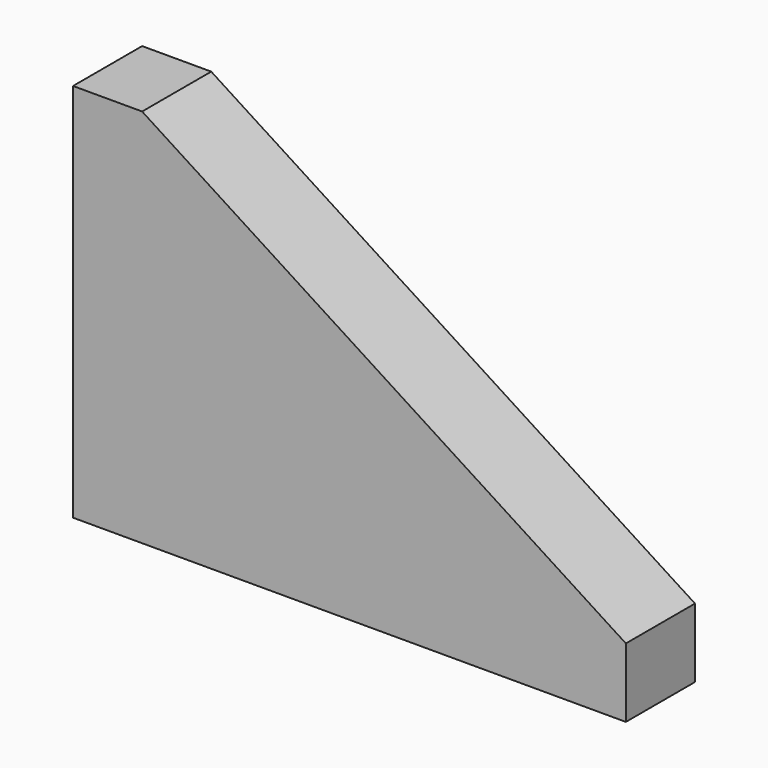
from build123d import *

# Parameters (mm, degrees)
F1_DEPTH = 25
F2_DEPTH = 25
F3_DEPTH = 25
F4_DEPTH = 25
F5_DEPTH = 25


with BuildPart() as f1:
    # F0 (on Front) → F1 (new body)
    with BuildSketch(Plane.XZ):
        Polygon((-83.388145, 53.431101), (-103.388145, 53.431101), (-103.388145, -56.568899), (56.611855, -56.568899), (56.611855, -36.568899), align=None)
    extrude(amount=F1_DEPTH)

    # F0 (on Front) → F2 (join)
    with BuildSketch(Plane.XZ):
        Polygon((-83.388145, 53.431101), (-103.388145, 53.431101), (-103.388145, -56.568899), (56.611855, -56.568899), (56.611855, -36.568899), align=None)
    extrude(amount=F2_DEPTH)

    # F0 (on Front) → F3 (join)
    with BuildSketch(Plane.XZ):
        Polygon((-83.388145, 53.431101), (-103.388145, 53.431101), (-103.388145, -56.568899), (56.611855, -56.568899), (56.611855, -36.568899), align=None)
    extrude(amount=F3_DEPTH)

    # F0 (on Front) → F4 (join)
    with BuildSketch(Plane.XZ):
        Polygon((-83.388145, 53.431101), (-103.388145, 53.431101), (-103.388145, -56.568899), (56.611855, -56.568899), (56.611855, -36.568899), align=None)
    extrude(amount=F4_DEPTH)

    # F0 (on Front) → F5 (join)
    with BuildSketch(Plane.XZ):
        Polygon((-83.388145, 53.431101), (-103.388145, 53.431101), (-103.388145, -56.568899), (56.611855, -56.568899), (56.611855, -36.568899), align=None)
    extrude(amount=F5_DEPTH)


solid = f1.part
